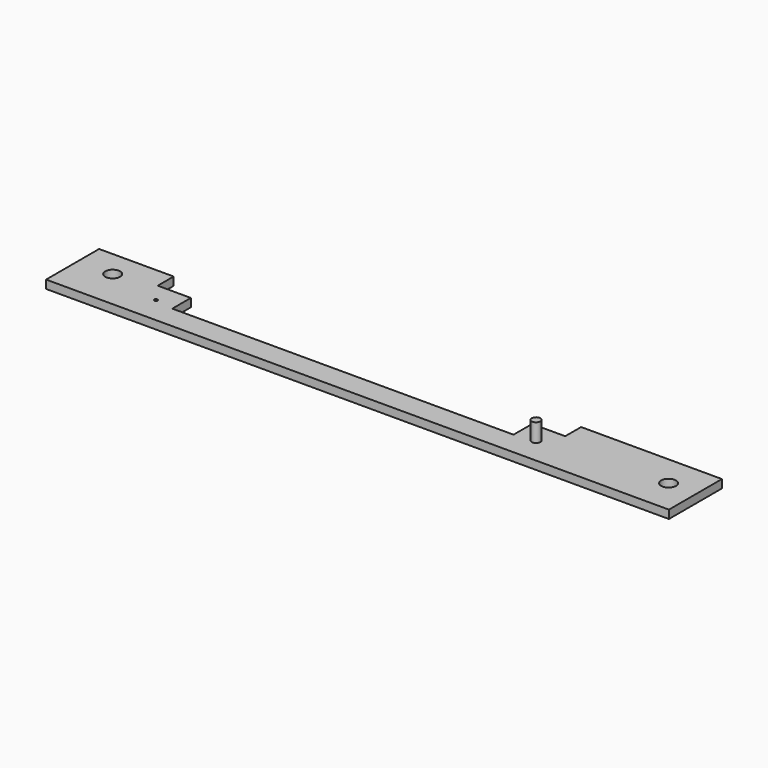
from build123d import *

# Parameters (mm, degrees)
BOX_W             = 188
BOX_H             = 20
BOX_DEPTH         = 2.5
CYLINDER_R        = 2.25
CYLINDER_DEPTH    = 2.5
CYLINDER001_R     = 2.25
CYLINDER001_DEPTH = 2.5
BOX001_W          = 123
BOX001_H          = 6
BOX001_DEPTH      = 2.5
BOX002_W          = 103
BOX002_H          = 7
BOX002_DEPTH      = 2.5
CYLINDER003_R     = 1.3
CYLINDER003_DEPTH = 6
CYLINDER004_R     = 0.5
CYLINDER004_DEPTH = 2.5


with BuildPart() as part:
    # Box → Box (join)
    with BuildSketch(Plane.XY):
        with Locations((94, 10)):
            Rectangle(BOX_W, BOX_H)
    extrude(amount=BOX_DEPTH)

    # Cylinder → Cylinder (cut)
    with BuildSketch(Plane(origin=(10.5, 12, 0), x_dir=(1, 0, 0), z_dir=(0, 0, 1))):
        Circle(CYLINDER_R)
    extrude(amount=CYLINDER_DEPTH, mode=Mode.SUBTRACT)

    # Cylinder001 → Cylinder001 (cut)
    with BuildSketch(Plane(origin=(179.5, 10.5, 0), x_dir=(1, 0, 0), z_dir=(0, 0, 1))):
        Circle(CYLINDER001_R)
    extrude(amount=CYLINDER001_DEPTH, mode=Mode.SUBTRACT)

    # Box001 → Box001 (cut)
    with BuildSketch(Plane(origin=(22.5, 14, 0), x_dir=(1, 0, 0), z_dir=(0, 0, 1))):
        with Locations((61.5, 3)):
            Rectangle(BOX001_W, BOX001_H)
    extrude(amount=BOX001_DEPTH, mode=Mode.SUBTRACT)

    # Box002 → Box002 (cut)
    with BuildSketch(Plane(origin=(32.5, 7, 0), x_dir=(1, 0, 0), z_dir=(0, 0, 1))):
        with Locations((51.5, 3.5)):
            Rectangle(BOX002_W, BOX002_H)
    extrude(amount=BOX002_DEPTH, mode=Mode.SUBTRACT)

    # Cylinder003 → Cylinder003 (join)
    with BuildSketch(Plane(origin=(141.5, 8, 2), x_dir=(1, 0, 0), z_dir=(0, 0, 1))):
        Circle(CYLINDER003_R)
    extrude(amount=CYLINDER003_DEPTH)

    # Cylinder004 → Cylinder004 (cut)
    with BuildSketch(Plane(origin=(26.75, 8, 0), x_dir=(1, 0, 0), z_dir=(0, 0, 1))):
        Circle(CYLINDER004_R)
    extrude(amount=CYLINDER004_DEPTH, mode=Mode.SUBTRACT)


solid = part.part
